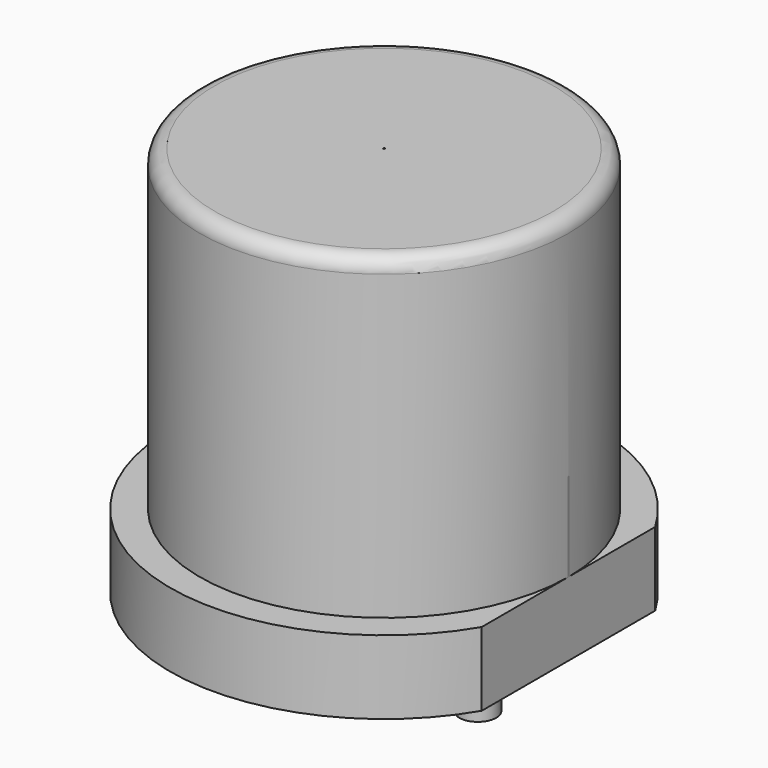
from build123d import *

# Parameters (mm, degrees)
F0_W      = 2.5
F0_H      = 4.3
F1_DEPTH  = 0.01
F4_W      = 3
F4_H      = 2.4
F5_DEPTH  = 2
F0_W_2    = 0.25
F0_H_2    = 26.2
F6_DEPTH  = 0.01
F7_DEPTH  = 0.01
F7_FACE_W = 0.25
F7_FACE_H = 28.7
F6_FACE_W = 0.25
F6_FACE_H = 26.2
F10_R     = 0.2
F11_W     = 38
F11_H     = 33
F12_DEPTH = 12.5


with BuildPart() as f1:
    # F0 (on Front) → F1 (new body)
    with BuildSketch(Plane.XZ):
        with Locations((1.25, 2.15)):
            Rectangle(F0_W, F0_H)
        Polygon((2.5, 0), (0, 0), (0, -1), (1.02, -1), (1.27, -1), (2.9, -1), (2.9, 0), align=None)
    extrude(amount=F1_DEPTH)

    # F1_face (on face) → F2 (revolve)
    with BuildSketch(Plane(origin=(1.2924908425, -0.01, 1.586996337), x_dir=(1, 0, 0), z_dir=(0, -1, 0))):
        Polygon((-1.2924908425, 2.713003663), (-1.2924908425, -2.586996337), (1.6075091575, -2.586996337), (1.6075091575, -1.586996337), (1.2075091575, -1.586996337), (1.2075091575, 2.713003663), align=None)
    revolve(axis=Axis((0, 0, 1.65), (0, 0, 1)))

    # F4 (on offset) → F5 (cut)
    with BuildSketch(Plane.YZ.offset(2.5)):
        Rectangle(F4_W, F4_H)
    extrude(amount=F5_DEPTH, mode=Mode.SUBTRACT)

    # F0 (on Front) → F6 (join)
    with BuildSketch(Plane.XZ):
        with Locations((1.145, -14.1)):
            Rectangle(F0_W_2, F0_H_2)
    extrude(amount=F6_DEPTH)

    # F0 (on Front) → F7 (join)
    with BuildSketch(Plane.XZ):
        Polygon((-1.02, -29.7), (-1.02, -27.2), (-1.02, -1), (-1.27, -1), (-1.27, -29.7), align=None)
    extrude(amount=F7_DEPTH)

    # F7_face (on face) → F8 (revolve)
    with BuildSketch(Plane(origin=(-1.145, -0.01, -15.35), x_dir=(1, 0, 0), z_dir=(0, -1, 0))):
        Rectangle(F7_FACE_W, F7_FACE_H)
    revolve(axis=Axis((-1.27, 0, -15.35), (0, 0, 1)))

    # F6_face (on face) → F9 (revolve)
    with BuildSketch(Plane(origin=(1.145, -0.01, -14.1), x_dir=(1, 0, 0), z_dir=(0, -1, 0))):
        Rectangle(F6_FACE_W, F6_FACE_H)
    revolve(axis=Axis((1.27, 0, -14.1), (0, 0, -1)))

    # F10
    f10_edges = [f1.edges().sort_by_distance(p)[0] for p in [
        (-2.5, 0.01, 4.3),
    ]]
    fillet(f10_edges, radius=F10_R)

    # F11 (on Front) → F12 (cut, symmetric)
    with BuildSketch(Plane.XZ):
        with Locations((1.6585592992, -18.5)):
            Rectangle(F11_W, F11_H)
    extrude(amount=F12_DEPTH, both=True, mode=Mode.SUBTRACT)


solid = f1.part
